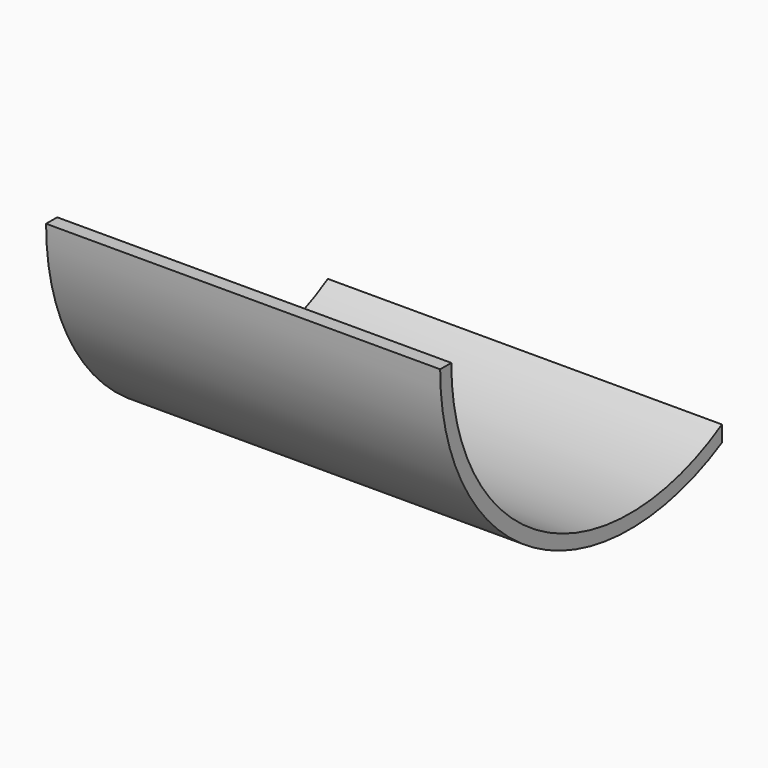
from build123d import *

# Parameters (mm, degrees)
F1_DEPTH = 107.95


with BuildPart() as f1:
    # F0 (on Right) → F1 (new body)
    with BuildSketch(Plane.YZ):
        with BuildLine():
            Line((-53.671635, 0), (-57.481635, 0))
            ThreePointArc((-57.481635, 0), (-25.496296, -56.005067), (38.992512, -56.91229))
            Line((38.992512, -56.91229), (38.992512, -52.517064))
            ThreePointArc((38.992512, -52.517064), (-22.640117, -53.255719), (-53.671635, 0))
        make_face()
    extrude(amount=-F1_DEPTH)


solid = f1.part
